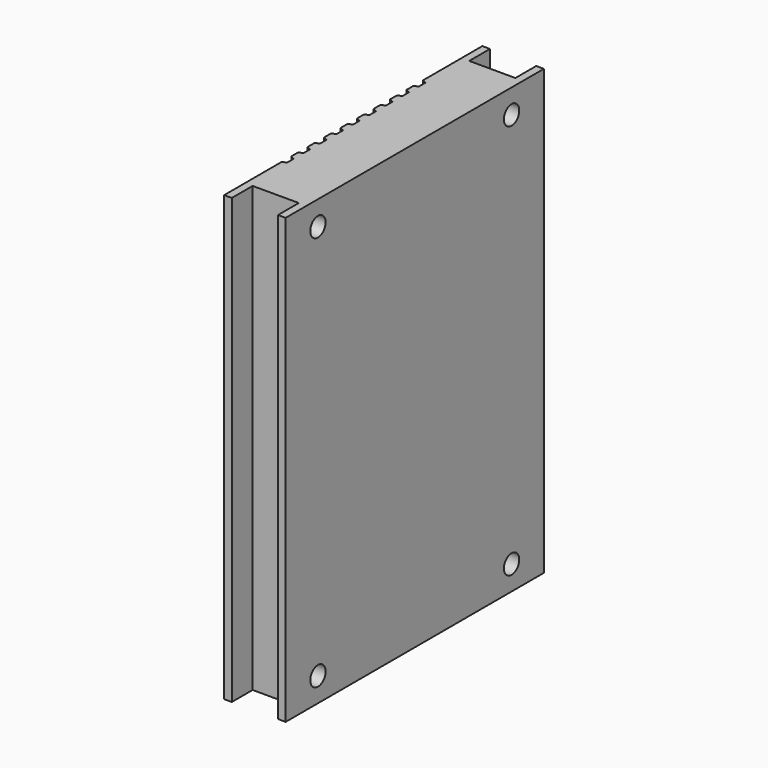
from build123d import *

# Parameters (mm, degrees)
F1_DEPTH = 110
F2_R     = 2.375
F3_DEPTH = 15.251
F4_R     = 1.3
F5_DEPTH = 5
F6_DEPTH = 5


with BuildPart() as f1:
    # F0 (on Top) → F1 (new body)
    with BuildSketch(Plane.XY):
        Polygon((0, 17.8), (0, 0), (1.9, 0), (1.9, 6.45), (13.35, 6.45), (13.35, 0), (15.25, 0), (15.25, 80), (13.35, 80), (13.35, 73.55), (1.9, 73.55), (1.9, 80), (0, 80), (0, 61.6), (1, 61.1), (1, 59.1), (0, 58.6), (0, 56.5), (1, 56), (1, 54), (0, 53.5), (0, 51.4), (1, 50.9), (1, 48.9), (0, 48.4), (0, 46.3), (1, 45.8), (1, 43.8), (0, 43.3), (0, 41.2), (1, 40.7), (1, 38.7), (0, 38.2), (0, 36.1), (1, 35.6), (1, 33.6), (0, 33.1), (0, 31), (1, 30.5), (1, 28.5), (0, 28), (0, 25.9), (1, 25.4), (1, 23.4), (0, 22.9), (0, 20.8), (1, 20.3), (1, 18.3), align=None)
    extrude(amount=F1_DEPTH)

    # F2 (on face) → F3 (cut, through all)
    with BuildSketch(Plane(origin=(0, 0, 0), x_dir=(0, -1, 0), z_dir=(-1, 0, 0))):
        with Locations((-70, 6)):
            Circle(F2_R)
        with Locations((-10, 6)):
            Circle(F2_R)
        with Locations((-70, 104)):
            Circle(F2_R)
        with Locations((-10, 104)):
            Circle(F2_R)
    extrude(amount=-F3_DEPTH, mode=Mode.SUBTRACT)


with BuildPart() as f5:
    # F4 (on face) → F5 (new body)
    with BuildSketch(Plane(origin=(0, 0, 0), x_dir=(1, 0, 0), z_dir=(0, 0, -1))):
        with Locations((7.787197, -27.45)):
            Circle(F4_R)
    extrude(amount=F5_DEPTH)


with BuildPart() as f6:
    # F4 (on face) → F6 (new body)
    with BuildSketch(Plane(origin=(0, 0, 0), x_dir=(1, 0, 0), z_dir=(0, 0, -1))):
        with Locations((7.787197, -52.55)):
            Circle(F4_R)
    extrude(amount=F6_DEPTH)


solid = Compound([f1.part, f5.part, f6.part])
